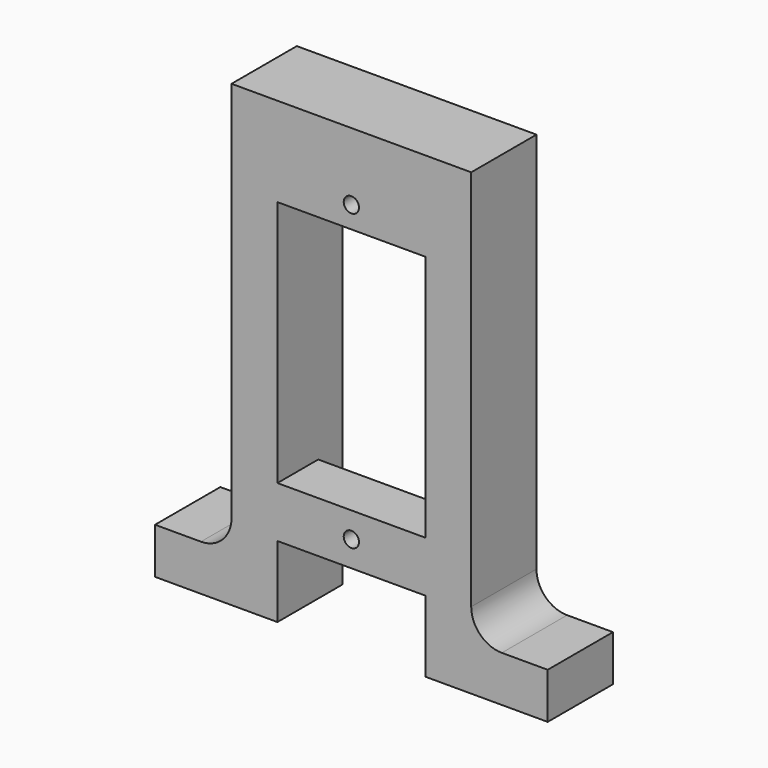
from build123d import *

# Parameters (mm, degrees)
F1_DEPTH = 8
F2_W     = 14.5
F2_H     = 4.25
F2_H_2   = 5
F3_DEPTH = 5
F4_R     = 0.75
F5_DEPTH = 5.001


with BuildPart() as f1:
    # F0 (on Front) → F1 (new body)
    with BuildSketch(Plane.XZ):
        with BuildLine():
            Line((-19.25, 4.5), (-19.25, 0))
            Line((-19.25, 0), (-7.25, 0))
            Line((-7.25, 0), (-7.25, 40.5))
            Line((-7.25, 40.5), (7.25, 40.5))
            Line((7.25, 40.5), (7.25, 0))
            Line((7.25, 0), (19.25, 0))
            Line((19.25, 0), (19.25, 4.5))
            Line((19.25, 4.5), (14.75, 4.5))
            ThreePointArc((14.75, 4.5), (12.62868, 5.37868), (11.75, 7.5))
            Line((11.75, 7.5), (11.75, 45))
            Line((11.75, 45), (-11.75, 45))
            Line((-11.75, 45), (-11.75, 7.5))
            ThreePointArc((-11.75, 7.5), (-12.62868, 5.37868), (-14.75, 4.5))
            Line((-14.75, 4.5), (-19.25, 4.5))
        make_face()
    extrude(amount=F1_DEPTH)

    # F2 (on face) → F3 (join)
    with BuildSketch(Plane.XZ.offset(8)):
        with Locations((0, 38.375)):
            Rectangle(F2_W, F2_H)
        with Locations((0, 9.5)):
            Rectangle(F2_W, F2_H_2)
    extrude(amount=-F3_DEPTH)

    # F4 (on face) → F5 (cut, through all)
    with BuildSketch(Plane(origin=(0, -3, 0), x_dir=(-1, 0, 0), z_dir=(0, 1, 0))):
        with Locations((0, 38.375)):
            Circle(F4_R)
        with Locations((0, 9.5)):
            Circle(F4_R)
    extrude(amount=-F5_DEPTH, mode=Mode.SUBTRACT)


solid = f1.part
